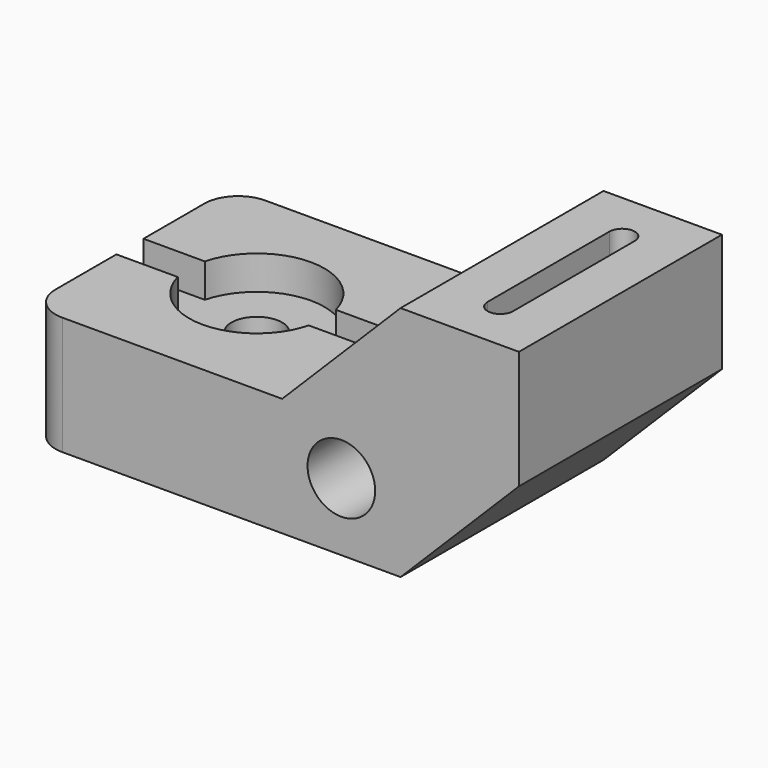
from build123d import *

# Parameters (mm, degrees)
F1_DEPTH       = 76.2
F3_DEPTH       = 27.94
F5_D           = 15.24
F5_CBORE_D     = 40.64
F5_CBORE_DEPTH = 10.16
F6_DEPTH       = 10.16
F7_R           = 10.16
F8_DEPTH       = 76.201
F9_R           = 10.16


with BuildPart() as f1:
    # F0 (on Front) → F1 (new body)
    with BuildSketch(Plane.XZ):
        Polygon((0, 35.56), (0, 0), (111.76, 0), (147.32, 35.56), (147.32, 71.12), (111.76, 71.12), (76.2, 35.56), align=None)
    extrude(amount=-F1_DEPTH)

    # F2 (on face) → F3 (cut)
    with BuildSketch(Plane.XY.offset(71.12)):
        with BuildLine():
            ThreePointArc((133.35, 60.96), (129.54, 64.77), (125.73, 60.96))
            Line((125.73, 60.96), (125.73, 15.24))
            ThreePointArc((125.73, 15.24), (129.54, 11.43), (133.35, 15.24))
            Line((133.35, 15.24), (133.35, 60.96))
        make_face()
    extrude(amount=-F3_DEPTH, mode=Mode.SUBTRACT)

    # F5 (through all)
    with Locations(Plane.XY.offset(35.56)):
        with Locations((38.1, 38.1)):
            CounterBoreHole(F5_D / 2, F5_CBORE_D / 2, F5_CBORE_DEPTH)

    # F4 (on face) → F6 (cut)
    with BuildSketch(Plane.XY.offset(35.56)):
        with BuildLine():
            Line((19.739823, 43.18), (0, 43.18))
            Line((0, 43.18), (0, 33.02))
            Line((0, 33.02), (19.739823, 33.02))
            ThreePointArc((19.739823, 33.02), (19.05, 38.1), (19.739823, 43.18))
        make_face()
        with BuildLine():
            Line((76.2, 43.18), (56.460177, 43.18))
            ThreePointArc((56.460177, 43.18), (56.976757, 40.663311), (57.15, 38.1))
            ThreePointArc((57.15, 38.1), (56.976757, 35.536689), (56.460177, 33.02))
            Line((56.460177, 33.02), (76.2, 33.02))
            Line((76.2, 33.02), (76.2, 43.18))
        make_face()
    extrude(amount=-F6_DEPTH, mode=Mode.SUBTRACT)

    # F7 (on face) → F8 (cut, through all)
    with BuildSketch(Plane.XZ):
        with Locations((93.98, 20.32)):
            Circle(F7_R)
    extrude(amount=-F8_DEPTH, mode=Mode.SUBTRACT)

    # F9
    f9_edges = [f1.edges().sort_by_distance(p)[0] for p in [
        (0, 0, 17.78),
        (0, 76.2, 17.78),
    ]]
    fillet(f9_edges, radius=F9_R)


solid = f1.part
